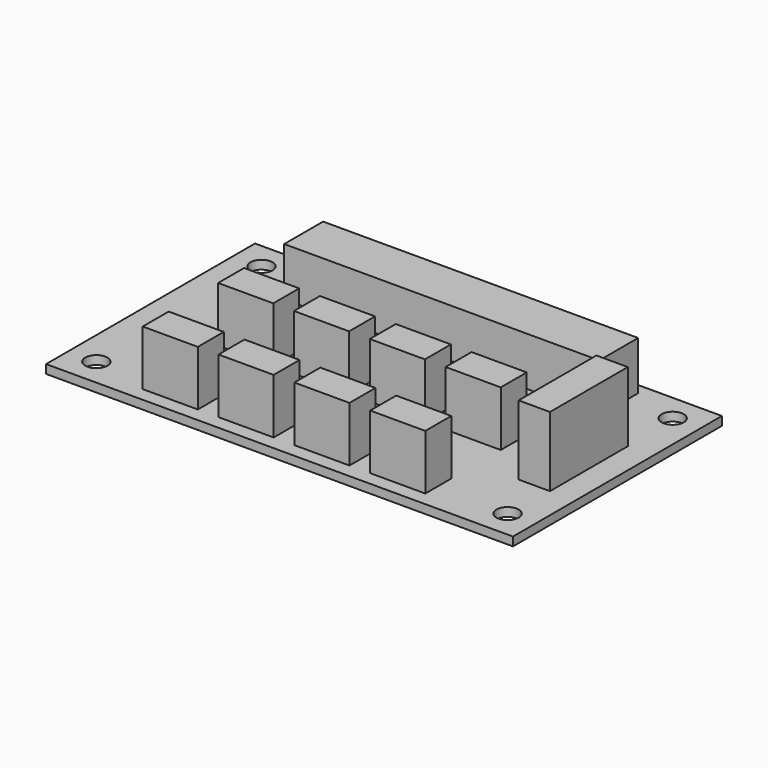
from build123d import *

# Parameters (mm, degrees)
F0_W     = 86.4
F0_H     = 48.33
F1_DEPTH = 1.61
F3_D     = 4.1
F4_W     = 58.3
F4_H     = 9
F5_DEPTH = 9
F6_W     = 5.8
F6_H     = 18
F7_DEPTH = 12.9
F8_W     = 10.2
F8_H     = 6
F9_DEPTH = 10.2


with BuildPart() as f1:
    # F0 (on Top) → F1 (new body)
    with BuildSketch(Plane.XY):
        with Locations((-43.2, 24.165)):
            Rectangle(F0_W, F0_H)
    extrude(amount=F1_DEPTH)

    # F3 (through all)
    with Locations(Plane.XY.offset(1.61)):
        with Locations((-81.2, 43.33), (-5.1, 43.33), (-5.1, 5.13), (-81.2, 5.13)):
            Hole(F3_D / 2)

    # F4 (on face) → F5 (join)
    with BuildSketch(Plane.XY.offset(1.61)):
        with Locations((-43.05, 41.83)):
            Rectangle(F4_W, F4_H)
    extrude(amount=F5_DEPTH)

    # F6 (on face) → F7 (join)
    with BuildSketch(Plane.XY.offset(1.61)):
        with Locations((-7.6, 23.43)):
            Rectangle(F6_W, F6_H)
    extrude(amount=F7_DEPTH)

    # F8 (on face) → F9 (join)
    with BuildSketch(Plane.XY.offset(1.61)):
        with Locations((-23.4, 5.6)):
            Rectangle(F8_W, F8_H)
        with Locations((-23.4, 23.05)):
            Rectangle(F8_W, F8_H)
        with Locations((-37.433333, 5.6)):
            Rectangle(F8_W, F8_H)
        with Locations((-37.433333, 23.05)):
            Rectangle(F8_W, F8_H)
        with Locations((-51.466667, 5.6)):
            Rectangle(F8_W, F8_H)
        with Locations((-51.466667, 23.05)):
            Rectangle(F8_W, F8_H)
        with Locations((-65.5, 5.6)):
            Rectangle(F8_W, F8_H)
        with Locations((-65.5, 23.05)):
            Rectangle(F8_W, F8_H)
    extrude(amount=F9_DEPTH)


solid = f1.part
